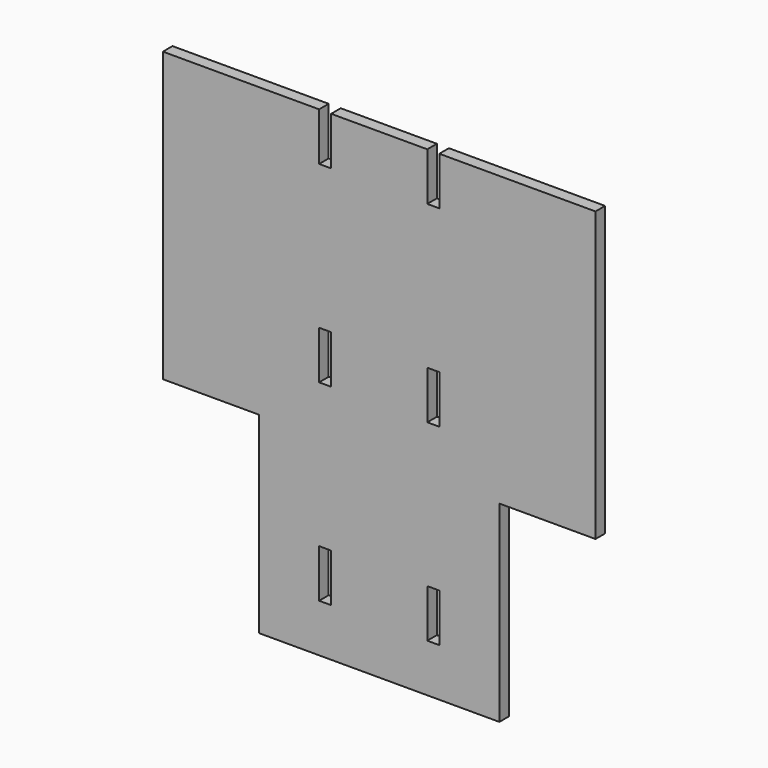
from build123d import *

# Parameters (mm, degrees)
F0_W     = 3.175
F0_H     = 12.7
F1_DEPTH = 3.175


with BuildPart() as f1:
    # F0 (on Front) → F1 (new body)
    with BuildSketch(Plane.XZ):
        Polygon((57.15, -12.7), (57.15, 63.5), (15.875, 63.5), (15.875, 50.8), (12.7, 50.8), (12.7, 63.5), (0, 63.5), (0, 0), (0, -63.5), (31.75, -63.5), (31.75, -38.1), (31.75, -12.7), align=None)
        with Locations((14.2875, -44.45)):
            Rectangle(F0_W, F0_H, mode=Mode.SUBTRACT)
        with Locations((14.2875, 6.35)):
            Rectangle(F0_W, F0_H, mode=Mode.SUBTRACT)
        Polygon((0, 0), (0, 63.5), (-12.7, 63.5), (-12.7, 50.8), (-15.875, 50.8), (-15.875, 63.5), (-57.15, 63.5), (-57.15, -12.7), (-31.75, -12.7), (-31.75, -38.1), (-31.75, -63.5), (0, -63.5), align=None)
        with Locations((-14.2875, -44.45)):
            Rectangle(F0_W, F0_H, mode=Mode.SUBTRACT)
        with Locations((-14.2875, 6.35)):
            Rectangle(F0_W, F0_H, mode=Mode.SUBTRACT)
    extrude(amount=F1_DEPTH)


solid = f1.part
